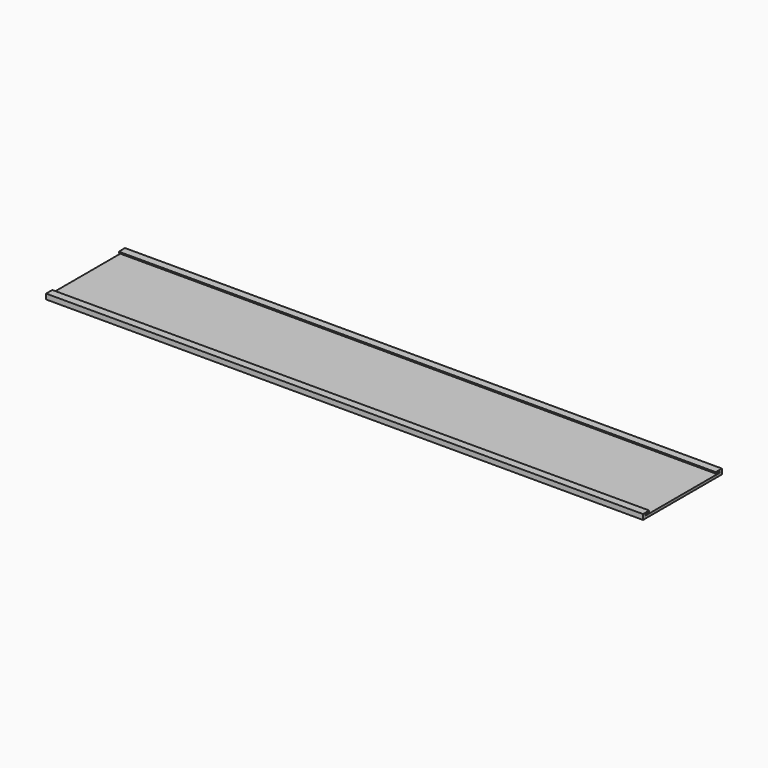
from build123d import *

# Parameters (mm, degrees)
F0_W     = 230
F0_H     = 38
F1_DEPTH = 1
F2_W     = 230
F2_H     = 1.25
F3_DEPTH = 0.5
F4_W     = 230
F4_H     = 3
F5_DEPTH = 0.5


with BuildPart() as f1:
    # F0 (on Top) → F1 (new body)
    with BuildSketch(Plane.XY):
        Rectangle(F0_W, F0_H)
    extrude(amount=F1_DEPTH)

    # F2 (on face) → F3 (join)
    with BuildSketch(Plane.XY.offset(1)):
        with Locations((0, 18.375)):
            Rectangle(F2_W, F2_H)
        with Locations((0, -18.375)):
            Rectangle(F2_W, F2_H)
    extrude(amount=F3_DEPTH)

    # F4 (on face) → F5 (join)
    with BuildSketch(Plane.XY.offset(1.5)):
        with Locations((0, 17.5)):
            Rectangle(F4_W, F4_H)
        with Locations((0, -17.5)):
            Rectangle(F4_W, F4_H)
    extrude(amount=F5_DEPTH)


solid = f1.part
